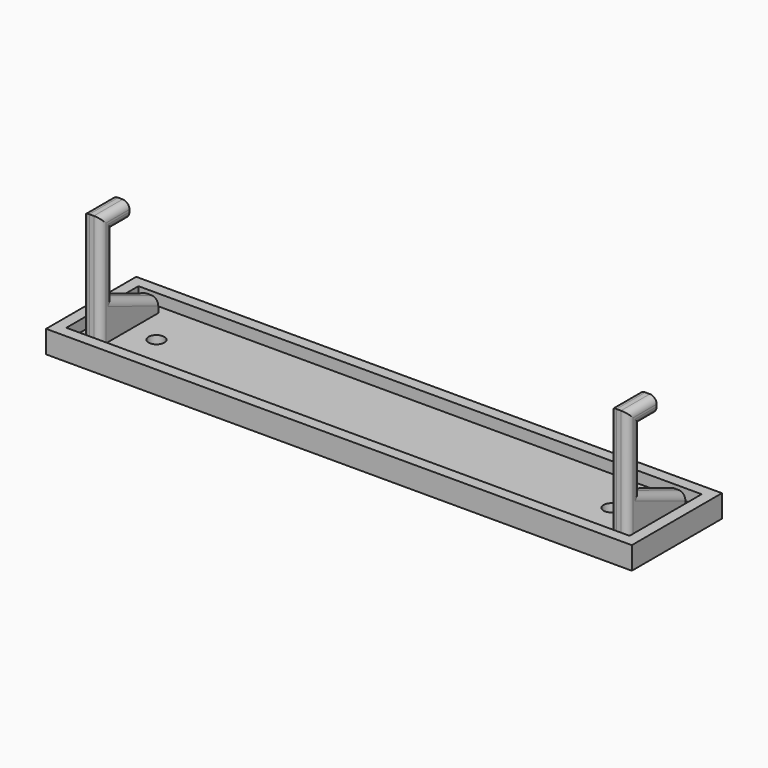
from build123d import *

# Parameters (mm, degrees)
F0_W      = 130
F0_H      = 25
F1_DEPTH  = 5
F2_T      = -2.5
F3_W      = 4
F3_H      = 16
F4_DEPTH  = 25
F6_DEPTH  = 125.501
F7_R      = 1.5
F8_R      = 1.5
F9_R      = 1.75
F10_DEPTH = 2.501


with BuildPart() as f1:
    # F0 (on Top) → F1 (new body)
    with BuildSketch(Plane.XY):
        Rectangle(F0_W, F0_H)
    extrude(amount=F1_DEPTH)

    # F2
    f2_openings = [f1.faces().sort_by_distance(p)[0] for p in [
        (0, 0, 5),
    ]]
    offset(amount=F2_T, openings=f2_openings)

    # F3 (on face) → F4 (join)
    with BuildSketch(Plane.XY.offset(2.5)):
        with Locations((-58.5, 0)):
            Rectangle(F3_W, F3_H)
        with Locations((58.5, 0)):
            Rectangle(F3_W, F3_H)
    extrude(amount=F4_DEPTH)

    # F5 (on face) → F6 (cut, through all)
    with BuildSketch(Plane(origin=(-60.5, 0, 0), x_dir=(0, -1, 0), z_dir=(-1, 0, 0))):
        Polygon((0, 24), (0, 27.5), (-8, 27.5), (-8, 5.5), (4.5, 10.5), (4.5, 24), align=None)
    extrude(amount=-F6_DEPTH, mode=Mode.SUBTRACT)

    # F7
    f7_edges = [f1.edges().sort_by_distance(p)[0] for p in [
        (-60.5, -2.25, 24),
        (-60.5, -4, 27.5),
        (-56.5, -4, 27.5),
        (-56.5, -2.25, 24),
        (-60.5, -4.5, 17.25),
        (-56.5, -4.5, 17.25),
        (-60.5, -8, 15),
        (-56.5, -8, 15),
        (-60.5, 1.75, 8),
        (-56.5, 1.75, 8),
    ]]
    fillet(f7_edges, radius=F7_R)

    # F8
    f8_edges = [f1.edges().sort_by_distance(p)[0] for p in [
        (60.5, -4, 27.5),
        (56.5, -4, 27.5),
        (60.5, -2.25, 24),
        (60.5, -4.5, 17.25),
        (60.5, -8, 15),
        (60.5, 1.75, 8),
        (56.5, -8, 15),
        (56.5, -4.5, 17.25),
        (56.5, -2.25, 24),
        (56.5, 1.75, 8),
    ]]
    fillet(f8_edges, radius=F8_R)

    # F9 (on face) → F10 (cut, through all)
    with BuildSketch(Plane.XY.offset(2.5)):
        with Locations((-50.5, 0)):
            Circle(F9_R)
        with Locations((50.5, 0)):
            Circle(F9_R)
    extrude(amount=-F10_DEPTH, mode=Mode.SUBTRACT)


solid = f1.part
